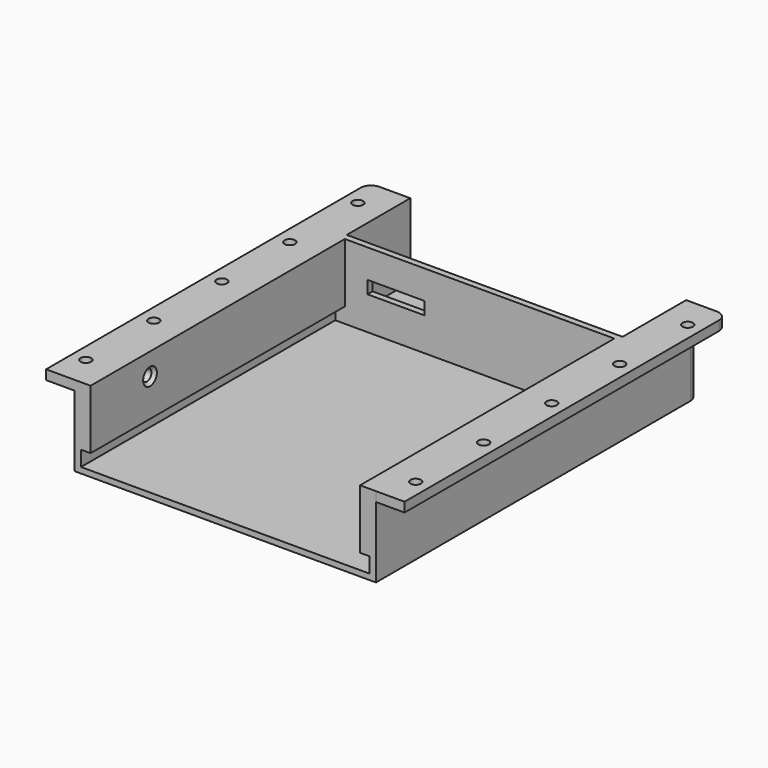
from build123d import *

# Parameters (mm, degrees)
SKETCH062_W         = 94.8
SKETCH062_H         = 127
PAD_DEPTH           = 28.5
POCKET011_DEPTH     = 100
SKETCH064_W         = 86.8
SKETCH064_H         = 23.38
POCKET012_DEPTH     = 25
SKETCH065_W         = 96.8
SKETCH065_H         = 129
POCKET013_DEPTH     = 3.2
SKETCH066_W         = 127
SKETCH066_H         = 3
PAD001_DEPTH        = 9
SKETCH067_W         = 127
SKETCH067_H         = 3
PAD002_DEPTH        = 9
SKETCH069_R         = 1.65
POCKET014_DEPTH     = 5
SKETCH072_W         = 90.8
SKETCH072_H         = 0.2
POCKET015_DEPTH     = 100
HOLE016_D           = 3.3
HOLE016_DEPTH       = 5
HOLE016_CSINK_D     = 6
HOLE016_CSINK_ANGLE = 90
HOLE017_D           = 3.5
HOLE017_DEPTH       = 5.3
HOLE017_CSINK_D     = 6
HOLE017_CSINK_ANGLE = 90
FILLET_R            = 3.35
FILLET002_R         = 3.35
SKETCH076_W         = 18
SKETCH076_H         = 4
POCKET017_DEPTH     = 2


with BuildPart() as part:
    # Sketch062 → Pad (new body)
    with BuildSketch(Plane.XY):
        with Locations((42.1, 73.5)):
            Rectangle(SKETCH062_W, SKETCH062_H)
    extrude(amount=PAD_DEPTH)

    # Sketch063 (on Face1 of Pad) → Pocket011 (cut)
    with BuildSketch(Plane.XZ.offset(-10)):
        Polygon((-3.299998, 2.01), (-3.299998, 6.61), (-0.299998, 6.61), (-0.299998, 25.39), (84.500002, 25.39), (84.500002, 6.61), (87.500002, 6.61), (87.500002, 2.01), align=None)
    extrude(amount=-POCKET011_DEPTH, mode=Mode.SUBTRACT)

    # Sketch064 (on Face14 of Pocket011) → Pocket012 (cut)
    with BuildSketch(Plane(origin=(0, 137, 0), x_dir=(-1, 0, 0), z_dir=(0, 1, 0))):
        with Locations((-42.1, 13.689999)):
            Rectangle(SKETCH064_W, SKETCH064_H)
    extrude(amount=-POCKET012_DEPTH, mode=Mode.SUBTRACT)

    # Sketch065 (on Face4 of Pocket012) → Pocket013 (cut)
    with BuildSketch(Plane.XY.offset(28.5)):
        with Locations((42.180762, 73.419241)):
            Rectangle(SKETCH065_W, SKETCH065_H)
    extrude(amount=-POCKET013_DEPTH, mode=Mode.SUBTRACT)

    # Sketch066 (on Face12 of Pocket013) → Pad001 (join)
    with BuildSketch(Plane(origin=(-5.3, 0, 0), x_dir=(0, -1, 0), z_dir=(-1, 0, 0))):
        with Locations((-73.5, 23.8)):
            Rectangle(SKETCH066_W, SKETCH066_H)
    extrude(amount=PAD001_DEPTH)

    # Sketch067 (on Face3 of Pad001) → Pad002 (join)
    with BuildSketch(Plane.YZ.offset(89.5)):
        with Locations((73.500002, 23.8)):
            Rectangle(SKETCH067_W, SKETCH067_H)
    extrude(amount=PAD002_DEPTH)

    # Sketch069 (on Face17 of Pad002) → Pocket014 (cut)
    with BuildSketch(Plane.XY.offset(25.3)):
        with Locations((-9.8, 20.000492)):
            Circle(SKETCH069_R)
        with Locations((-9.8, 46.749416)):
            Circle(SKETCH069_R)
        with Locations((-9.8, 73.500001)):
            Circle(SKETCH069_R)
        with Locations((-9.8, 100.249657)):
            Circle(SKETCH069_R)
        with Locations((-9.8, 126.999153)):
            Circle(SKETCH069_R)
        with Locations((94, 20.001339)):
            Circle(SKETCH069_R)
        with Locations((94, 46.750263)):
            Circle(SKETCH069_R)
        with Locations((94, 73.500848)):
            Circle(SKETCH069_R)
        with Locations((94, 100.250504)):
            Circle(SKETCH069_R)
        with Locations((94, 127)):
            Circle(SKETCH069_R)
    extrude(amount=-POCKET014_DEPTH, mode=Mode.SUBTRACT)

    # Sketch072 (on Face1 of Pocket014) → Pocket015 (cut)
    with BuildSketch(Plane.XZ.offset(-10)):
        with Locations((42.099998, 1.91)):
            Rectangle(SKETCH072_W, SKETCH072_H)
    extrude(amount=-POCKET015_DEPTH, mode=Mode.SUBTRACT)

    # Hole016
    with Locations(Plane(origin=(84.500002, 0, 0), x_dir=(0, -1, 0), z_dir=(-1, 0, 0))):
        with Locations((-33.375, 18.05)):
            CounterSinkHole(HOLE016_D / 2, HOLE016_CSINK_D / 2, depth=HOLE016_DEPTH, counter_sink_angle=HOLE016_CSINK_ANGLE)

    # Hole017
    with Locations(Plane.YZ):
        with Locations((33.374271, 18.355644)):
            CounterSinkHole(HOLE017_D / 2, HOLE017_CSINK_D / 2, depth=HOLE017_DEPTH, counter_sink_angle=HOLE017_CSINK_ANGLE)

    # Fillet
    fillet_edges = [part.edges().sort_by_distance(p)[0] for p in [
        (98.5, 137.000002, 23.8),
        (-14.3, 137, 23.8),
    ]]
    fillet(fillet_edges, radius=FILLET_R)

    # Fillet002
    fillet002_edges = [part.edges().sort_by_distance(p)[0] for p in [
        (89.5, 137, 11.15),
        (-5.3, 137, 11.15),
    ]]
    fillet(fillet002_edges, radius=FILLET002_R)

    # Sketch076 (on Face40 of Fillet002) → Pocket017 (cut)
    with BuildSketch(Plane(origin=(0, 112, 0), x_dir=(-1, 0, 0), z_dir=(0, 1, 0))):
        with Locations((-15.819999, 14.3)):
            Rectangle(SKETCH076_W, SKETCH076_H)
    extrude(amount=-POCKET017_DEPTH, mode=Mode.SUBTRACT)


with BuildPart() as part_1:
    # Body008 placement: moved
    add(part.part.moved(Location((-143, 0, 0))))


solid = part_1.part
